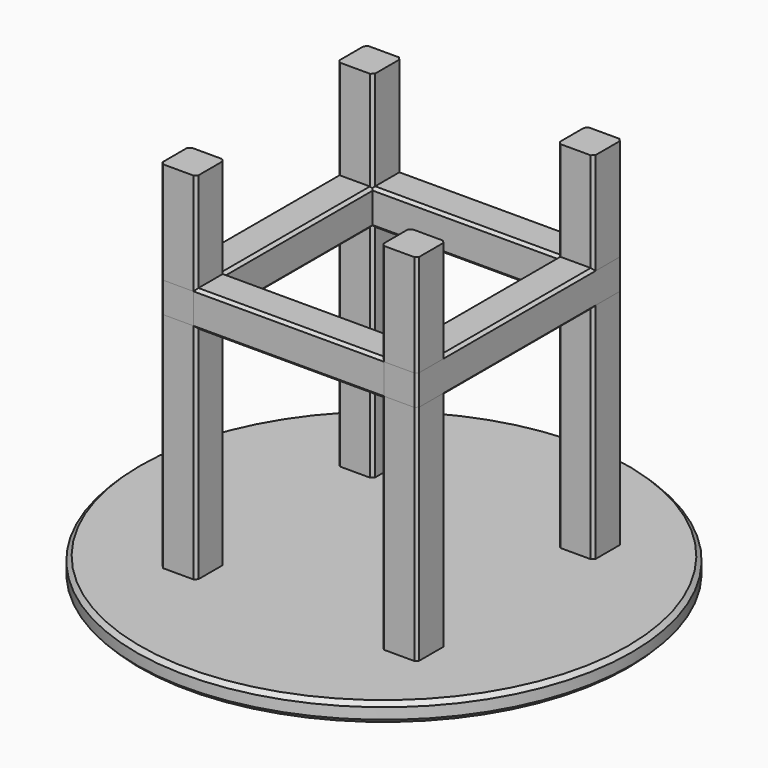
from build123d import *

# Parameters (mm, degrees)
CYLINDER_R      = 900
CYLINDER_DEPTH  = 70
CHAMFER_SIZE    = 15
BOX_W           = 130
BOX_H           = 130
BOX_DEPTH       = 1300
CHAMFER001_SIZE = 10
BOX001_W        = 130
BOX001_H        = 130
BOX001_DEPTH    = 1300
CHAMFER002_SIZE = 10
BOX002_W        = 130
BOX002_H        = 130
BOX002_DEPTH    = 1300
CHAMFER003_SIZE = 10
BOX003_W        = 130
BOX003_H        = 130
BOX003_DEPTH    = 1300
CHAMFER004_SIZE = 10
BOX004_W        = 130
BOX004_H        = 130
BOX004_DEPTH    = 930
CHAMFER005_SIZE = 10
BOX005_W        = 130
BOX005_H        = 130
BOX005_DEPTH    = 930
CHAMFER006_SIZE = 10
BOX006_W        = 130
BOX006_H        = 130
BOX006_DEPTH    = 930
CHAMFER007_SIZE = 10
BOX007_W        = 130
BOX007_H        = 130
BOX007_DEPTH    = 930
CHAMFER008_SIZE = 10


with BuildPart() as chamfer_body:
    # Cylinder → Cylinder (new body)
    with BuildSketch(Plane(origin=(-50, -50, 0), x_dir=(1, 0, 0), z_dir=(0, 0, 1))):
        Circle(CYLINDER_R)
    extrude(amount=CYLINDER_DEPTH)

    # Chamfer
    chamfer_edges = [chamfer_body.edges().sort_by_distance(p)[0] for p in [
        (-950, -50, 0),
        (-950, -50, 70),
    ]]
    chamfer(chamfer_edges, length=CHAMFER_SIZE)


with BuildPart() as chamfer001:
    # Box → Box (new body)
    with BuildSketch(Plane(origin=(-501, -500, 60), x_dir=(1, 0, 0), z_dir=(0, 0, 1))):
        with Locations((65, 65)):
            Rectangle(BOX_W, BOX_H)
    extrude(amount=BOX_DEPTH)

    # Chamfer001
    chamfer001_edges = [chamfer001.edges().sort_by_distance(p)[0] for p in [
        (-501, -500, 710),
        (-501, -370, 710),
        (-371, -500, 710),
        (-371, -370, 710),
    ]]
    chamfer(chamfer001_edges, length=CHAMFER001_SIZE)


with BuildPart() as chamfer002:
    # Box001 → Box001 (new body)
    with BuildSketch(Plane(origin=(300, -500, 60), x_dir=(1, 0, 0), z_dir=(0, 0, 1))):
        with Locations((65, 65)):
            Rectangle(BOX001_W, BOX001_H)
    extrude(amount=BOX001_DEPTH)

    # Chamfer002
    chamfer002_edges = [chamfer002.edges().sort_by_distance(p)[0] for p in [
        (300, -500, 710),
        (300, -370, 710),
        (430, -500, 710),
        (430, -370, 710),
    ]]
    chamfer(chamfer002_edges, length=CHAMFER002_SIZE)


with BuildPart() as chamfer003:
    # Box002 → Box002 (new body)
    with BuildSketch(Plane(origin=(300, 300, 60), x_dir=(1, 0, 0), z_dir=(0, 0, 1))):
        with Locations((65, 65)):
            Rectangle(BOX002_W, BOX002_H)
    extrude(amount=BOX002_DEPTH)

    # Chamfer003
    chamfer003_edges = [chamfer003.edges().sort_by_distance(p)[0] for p in [
        (300, 300, 710),
        (300, 430, 710),
        (430, 300, 710),
        (430, 430, 710),
    ]]
    chamfer(chamfer003_edges, length=CHAMFER003_SIZE)


with BuildPart() as chamfer004:
    # Box003 → Box003 (new body)
    with BuildSketch(Plane(origin=(-500, 300, 60), x_dir=(1, 0, 0), z_dir=(0, 0, 1))):
        with Locations((65, 65)):
            Rectangle(BOX003_W, BOX003_H)
    extrude(amount=BOX003_DEPTH)

    # Chamfer004
    chamfer004_edges = [chamfer004.edges().sort_by_distance(p)[0] for p in [
        (-500, 300, 710),
        (-500, 430, 710),
        (-370, 300, 710),
        (-370, 430, 710),
    ]]
    chamfer(chamfer004_edges, length=CHAMFER004_SIZE)


with BuildPart() as chamfer005:
    # Box004 → Box004 (new body)
    with BuildSketch(Plane(origin=(-500, 300, 1000), x_dir=(0, 0, -1), z_dir=(1, 0, 0))):
        with Locations((65, 65)):
            Rectangle(BOX004_W, BOX004_H)
    extrude(amount=BOX004_DEPTH)

    # Chamfer005
    chamfer005_edges = [chamfer005.edges().sort_by_distance(p)[0] for p in [
        (-35, 300, 1000),
        (430, 365, 1000),
        (-35, 430, 1000),
        (-500, 365, 1000),
        (-35, 300, 870),
        (430, 365, 870),
        (-35, 430, 870),
        (-500, 365, 870),
        (-500, 300, 935),
        (430, 300, 935),
        (-500, 430, 935),
        (430, 430, 935),
    ]]
    chamfer(chamfer005_edges, length=CHAMFER005_SIZE)


with BuildPart() as chamfer006:
    # Box005 → Box005 (new body)
    with BuildSketch(Plane(origin=(-500, -500, 1000), x_dir=(0, 0, -1), z_dir=(1, 0, 0))):
        with Locations((65, 65)):
            Rectangle(BOX005_W, BOX005_H)
    extrude(amount=BOX005_DEPTH)

    # Chamfer006
    chamfer006_edges = [chamfer006.edges().sort_by_distance(p)[0] for p in [
        (-35, -500, 1000),
        (430, -435, 1000),
        (-35, -370, 1000),
        (-500, -435, 1000),
        (-35, -500, 870),
        (430, -435, 870),
        (-35, -370, 870),
        (-500, -435, 870),
        (-500, -500, 935),
        (430, -500, 935),
        (-500, -370, 935),
        (430, -370, 935),
    ]]
    chamfer(chamfer006_edges, length=CHAMFER006_SIZE)


with BuildPart() as chamfer007:
    # Box006 → Box006 (new body)
    with BuildSketch(Plane(origin=(-371, -500, 870), x_dir=(-1, 0, 0), z_dir=(0, 1, 0))):
        with Locations((65, 65)):
            Rectangle(BOX006_W, BOX006_H)
    extrude(amount=BOX006_DEPTH)

    # Chamfer007
    chamfer007_edges = [chamfer007.edges().sort_by_distance(p)[0] for p in [
        (-371, -35, 870),
        (-371, 430, 935),
        (-371, -35, 1000),
        (-371, -500, 935),
        (-501, -35, 870),
        (-501, 430, 935),
        (-501, -35, 1000),
        (-501, -500, 935),
        (-436, -500, 870),
        (-436, 430, 870),
        (-436, -500, 1000),
        (-436, 430, 1000),
    ]]
    chamfer(chamfer007_edges, length=CHAMFER007_SIZE)


with BuildPart() as chamfer008:
    # Box007 → Box007 (new body)
    with BuildSketch(Plane(origin=(430, -500, 870), x_dir=(-1, 0, 0), z_dir=(0, 1, 0))):
        with Locations((65, 65)):
            Rectangle(BOX007_W, BOX007_H)
    extrude(amount=BOX007_DEPTH)

    # Chamfer008
    chamfer008_edges = [chamfer008.edges().sort_by_distance(p)[0] for p in [
        (430, -35, 870),
        (430, 430, 935),
        (430, -35, 1000),
        (430, -500, 935),
        (300, -35, 870),
        (300, 430, 935),
        (300, -35, 1000),
        (300, -500, 935),
        (365, -500, 870),
        (365, 430, 870),
        (365, -500, 1000),
        (365, 430, 1000),
    ]]
    chamfer(chamfer008_edges, length=CHAMFER008_SIZE)


solid = Compound([chamfer_body.part, chamfer001.part, chamfer002.part, chamfer003.part, chamfer004.part, chamfer005.part, chamfer006.part, chamfer007.part, chamfer008.part])
